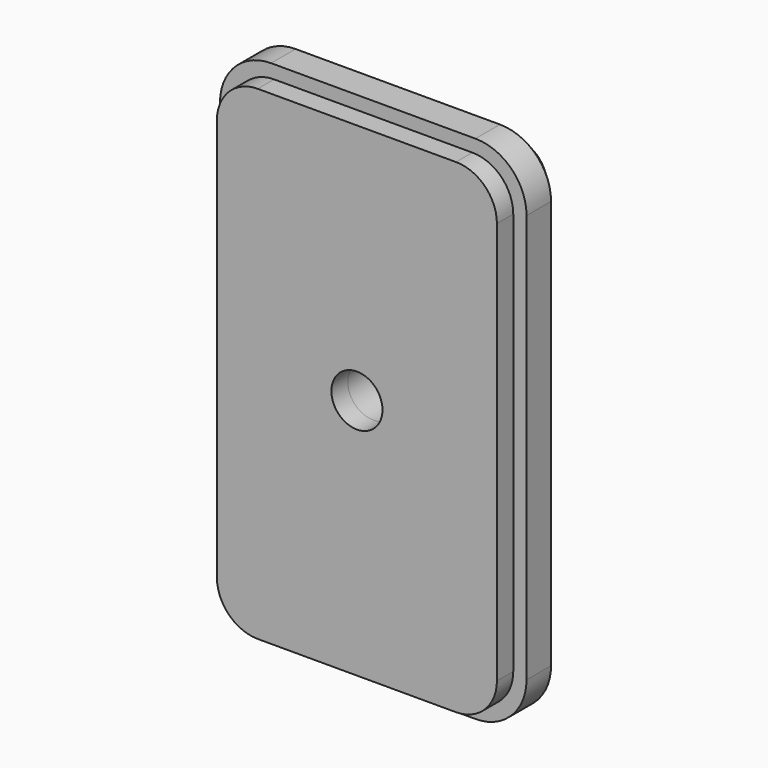
from build123d import *

# Parameters (mm, degrees)
F1_DEPTH = 6.35
F2_R     = 3.175
F3_DEPTH = 25.4
F4_R     = 3.175
F5_DEPTH = 2.54
F6_SIZE  = 2.54


with BuildPart() as f1:
    # F0 (on Front) → F1 (new body)
    with BuildSketch(Plane.XZ):
        with BuildLine():
            ThreePointArc((19.05, 25.4), (17.1901280605, 29.8901280605), (12.7, 31.75))
            Line((12.7, 31.75), (-12.7, 31.75))
            ThreePointArc((-12.7, 31.75), (-17.1901280605, 29.8901280605), (-19.05, 25.4))
            Line((-19.05, 25.4), (-19.05, -25.4))
            ThreePointArc((-19.05, -25.4), (-17.1901280605, -29.8901280605), (-12.7, -31.75))
            Line((-12.7, -31.75), (12.7, -31.75))
            ThreePointArc((12.7, -31.75), (17.1901280605, -29.8901280605), (19.05, -25.4))
            Line((19.05, -25.4), (19.05, 25.4))
        make_face()
    extrude(amount=F1_DEPTH)

    # F2 (on face) → F3 (cut)
    with BuildSketch(Plane.XZ.offset(6.35)):
        Circle(F2_R)
    extrude(amount=-F3_DEPTH, mode=Mode.SUBTRACT)

    # F4 (on face) → F5 (join)
    with BuildSketch(Plane.XZ.offset(6.35)):
        with BuildLine():
            ThreePointArc((-12.319, 30.099), (-15.9111024484, 28.6111024484), (-17.399, 25.019))
            Line((-17.399, 25.019), (-17.399, -25.019))
            ThreePointArc((-17.399, -25.019), (-15.9111024484, -28.6111024484), (-12.319, -30.099))
            Line((-12.319, -30.099), (12.319, -30.099))
            ThreePointArc((12.319, -30.099), (15.9111024484, -28.6111024484), (17.399, -25.019))
            Line((17.399, -25.019), (17.399, 25.019))
            ThreePointArc((17.399, 25.019), (15.9111024484, 28.6111024484), (12.319, 30.099))
            Line((12.319, 30.099), (-12.319, 30.099))
        make_face()
        Circle(F4_R, mode=Mode.SUBTRACT)
    extrude(amount=F5_DEPTH)

    # F6
    f6_edges = [f1.edges().sort_by_distance(p)[0] for p in [
        (-19.05, 0, 0),
    ]]
    chamfer(f6_edges, length=F6_SIZE)


solid = f1.part
